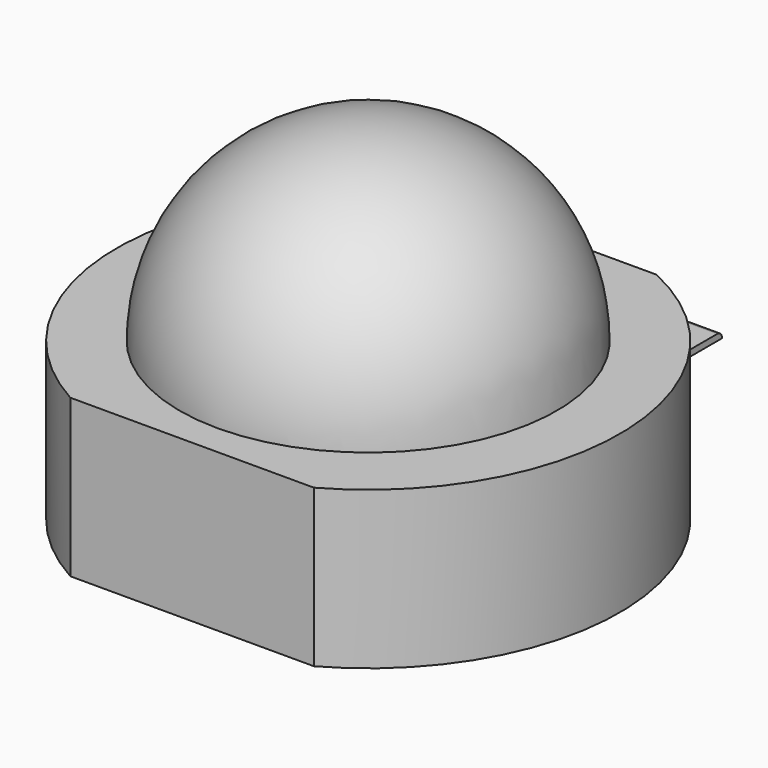
from build123d import *

# Parameters (mm, degrees)
SKETCH022_W             = 1.57
SKETCH022_H             = 3
PAD011_DEPTH            = 0.1
SKETCH024_W             = 0.05
SKETCH024_H             = 1
SKETCH025_W             = 0.05
SKETCH025_H             = 1
SKETCH026_W             = 1.6
SKETCH026_H             = 1.5
PAD012_DEPTH            = 0.05
FILLET004_R             = 0.09
FILLET005_R             = 0.1
FILLET006_R             = 0.04
REVOLUTION001_ANGLE     = 180
SKETCH028_R             = 3
PAD013_DEPTH            = 0.2
SKETCH020_R             = 4
PAD010_DEPTH            = 2.5
SKETCH023_W             = 2.920448
SKETCH023_H             = 7.916798
SKETCH023_W_2           = 3.050448
POCKET004_DEPTH         = 2.501
BODY010_PLACEMENT_ANGLE = 90


with BuildPart() as pad001:
    # Sketch022 → Pad011 (new body)
    with BuildSketch(Plane.XY):
        with Locations((4.415, 0.035576)):
            Rectangle(SKETCH022_W, SKETCH022_H)
    extrude(amount=-PAD011_DEPTH)

    # Sketch024 (on Face6 of Pad011) → AdditiveLoft002 section 0
    with BuildSketch(Plane(origin=(0, 0, -0.1), x_dir=(1, 0, 0), z_dir=(0, 0, -1))):
        with Locations((5.175, -1.035576)):
            Rectangle(SKETCH024_W, SKETCH024_H)
    # Sketch025 (on Face6 of Pad011) → AdditiveLoft002 section 1
    with BuildSketch(Plane(origin=(0, 0, -1.4), x_dir=(1, 0, 0), z_dir=(0, 0, -1))):
        with Locations((5.575, -1.028005)):
            Rectangle(SKETCH025_W, SKETCH025_H)
    loft()

    # Sketch026 (on Face11 of AdditiveLoft002) → Pad012 (join)
    with BuildSketch(Plane(origin=(0, 0, -1.4), x_dir=(1, 0, 0), z_dir=(0, 0, -1))):
        with Locations((6.35, -1.028005)):
            Rectangle(SKETCH026_W, SKETCH026_H)
    extrude(amount=PAD012_DEPTH)

    # Fillet004
    fillet004_edges = [pad001.edges().sort_by_distance(p)[0] for p in [
        (5.2, 0.035576, 0),
    ]]
    fillet(fillet004_edges, radius=FILLET004_R)

    # Fillet005
    fillet005_edges = [pad001.edges().sort_by_distance(p)[0] for p in [
        (5.6, 1.028005, -1.4),
    ]]
    fillet(fillet005_edges, radius=FILLET005_R)

    # Fillet006
    fillet006_edges = [pad001.edges().sort_by_distance(p)[0] for p in [
        (5.55, 1.028005, -1.45),
    ]]
    fillet(fillet006_edges, radius=FILLET006_R)


with BuildPart() as pad001_1:
    # Body008 placement: moved
    add(pad001.part.moved(Location((0, 0, 1))))


with BuildPart() as len001:
    # Sketch021 (on DatumPlane) → Revolution001 (revolve)
    with BuildSketch(Plane.XY.offset(2.5)):
        with BuildLine():
            Line((-3, 0), (3, 0))
            ThreePointArc((3, 0), (0, 3), (-3, 0))
        make_face()
    revolve(axis=Axis((0, 0, 2.5), (1, 0, 0)), revolution_arc=REVOLUTION001_ANGLE)


with BuildPart() as thermalpad001:
    # Sketch028 → Pad013 (new body)
    with BuildSketch(Plane.XY):
        Circle(SKETCH028_R)
    extrude(amount=PAD013_DEPTH)


with BuildPart() as thermalpad001_1:
    # Body009 placement: moved
    add(thermalpad001.part.moved(Location((0, 0, -0.2))))


with BuildPart() as led2:
    # Sketch020 → Pad010 (new body)
    with BuildSketch(Plane.XY):
        Circle(SKETCH020_R)
    extrude(amount=PAD010_DEPTH)

    # Sketch023 (on Face3 of Pad010) → Pocket004 (cut, through all)
    with BuildSketch(Plane.XY.offset(2.5)):
        with Locations((5.090224, -0.060281)):
            Rectangle(SKETCH023_W, SKETCH023_H)
        with Locations((-5.025224, 0.060281)):
            Rectangle(SKETCH023_W_2, SKETCH023_H)
    extrude(amount=-POCKET004_DEPTH, mode=Mode.SUBTRACT)

    # Fusion001: union PAD001, Len001, ThermalPad001
    add(pad001_1.part)
    add(len001.part)
    add(thermalpad001_1.part)


with BuildPart() as led2_1:
    # Fusion001 placement: moved
    add(led2.part.moved(Location((9.2, 28.5, -1))))


with BuildPart() as led2_2:
    # Body010 placement: moved
    add(led2_1.part.moved(Location((58.4, -9.2, 0))).rotate(Axis((58.4, -9.2, 0), (0, 0, 1)), BODY010_PLACEMENT_ANGLE))


solid = led2_2.part
